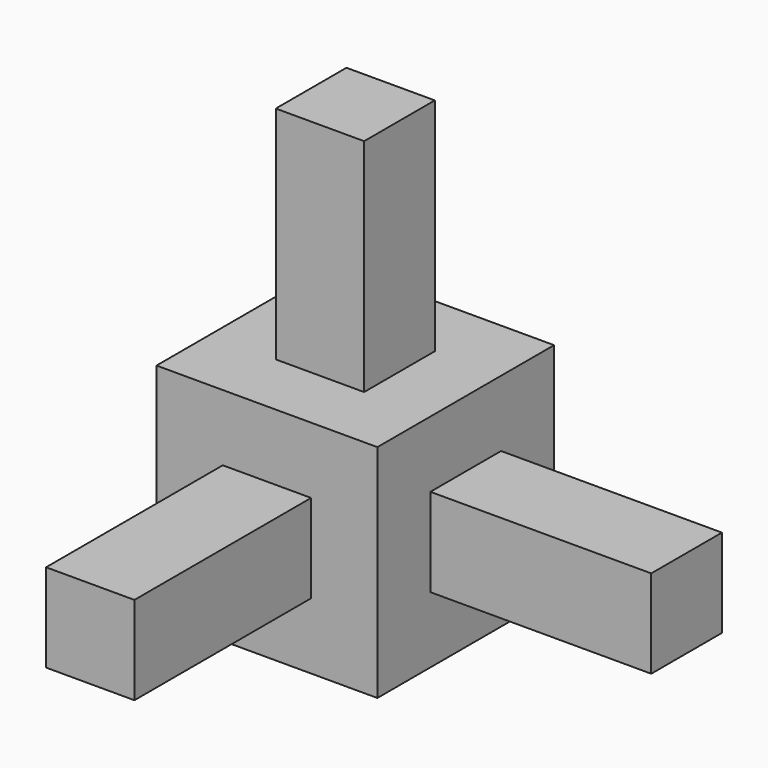
from build123d import *

# Parameters (mm, degrees)
F0_W     = 10
F0_H     = 10
F1_DEPTH = 5
F2_W     = 4
F2_H     = 4
F3_DEPTH = 15
F4_W     = 4
F4_H     = 4
F5_DEPTH = 15
F6_W     = 4
F6_H     = 4
F7_DEPTH = 15


with BuildPart() as f1:
    # F0 (on Top) → F1 (new body, symmetric)
    with BuildSketch(Plane.XY):
        Rectangle(F0_W, F0_H)
    extrude(amount=F1_DEPTH, both=True)

    # F2 (on Top) → F3 (join)
    with BuildSketch(Plane.XY):
        Rectangle(F2_W, F2_H)
    extrude(amount=F3_DEPTH)

    # F4 (on Front) → F5 (join)
    with BuildSketch(Plane.XZ):
        Rectangle(F4_W, F4_H)
    extrude(amount=F5_DEPTH)

    # F6 (on Right) → F7 (join)
    with BuildSketch(Plane.YZ):
        Rectangle(F6_W, F6_H)
    extrude(amount=F7_DEPTH)


solid = f1.part
